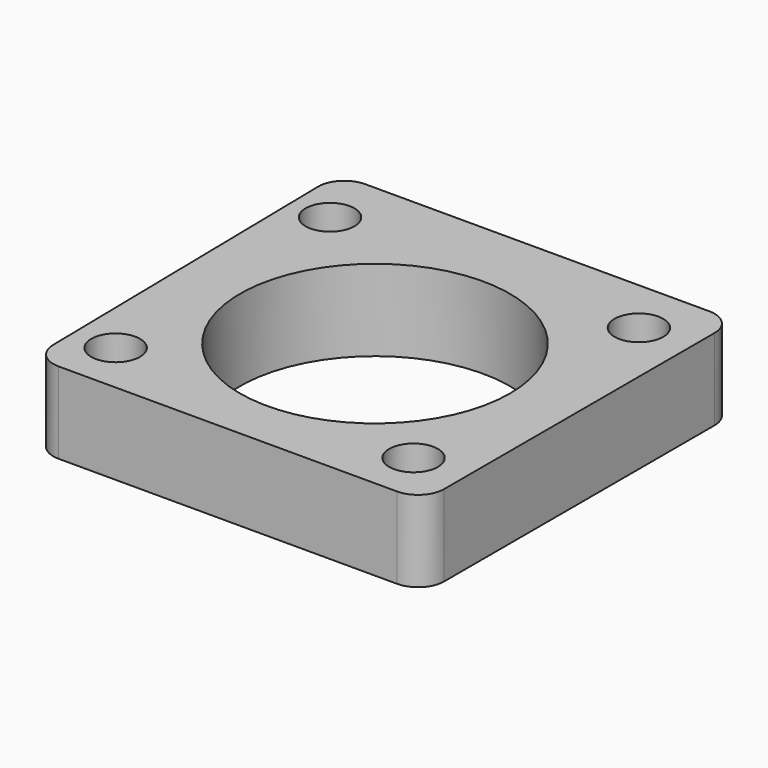
from build123d import *

# Parameters (mm, degrees)
F0_R     = 7.5
F0_R_2   = 41.5
F1_DEPTH = 25


with BuildPart() as f1:
    # F0 (on Top) → F1 (new body)
    with BuildSketch(Plane.XY):
        with BuildLine():
            ThreePointArc((-59.925168, -48.84305), (-57.53589, -54.413699), (-51.926274, -56.709997))
            Line((-51.926274, -56.709997), (52.20569, -56.709997))
            ThreePointArc((52.20569, -56.709997), (57.862545, -54.366851), (60.20569, -48.709997))
            Line((60.20569, -48.709997), (60.20569, 55.273405))
            ThreePointArc((60.20569, 55.273405), (57.862545, 60.93026), (52.20569, 63.273405))
            Line((52.20569, 63.273405), (-53.655924, 63.273405))
            ThreePointArc((-53.655924, 63.273405), (-59.359626, 60.883021), (-61.654818, 55.140352))
            Line((-61.654818, 55.140352), (-59.925168, -48.84305))
        make_face()
        with Locations((-47.246009, -40.616337)):
            Circle(F0_R, mode=Mode.SUBTRACT)
        with Locations((44.347703, -40.616337)):
            Circle(F0_R, mode=Mode.SUBTRACT)
        Circle(F0_R_2, mode=Mode.SUBTRACT)
        with Locations((-49.459223, 44.541564)):
            Circle(F0_R, mode=Mode.SUBTRACT)
        with Locations((44.347703, 45.987621)):
            Circle(F0_R, mode=Mode.SUBTRACT)
    extrude(amount=-F1_DEPTH)


solid = f1.part
